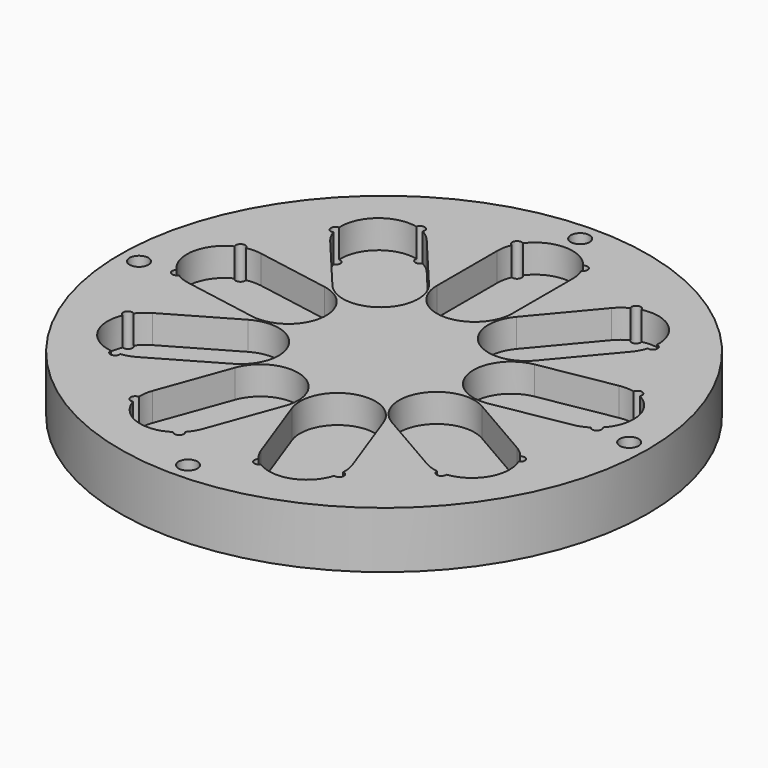
from build123d import *

# Parameters (mm, degrees)
SKETCH_R              = 70
PAD_DEPTH             = 15
POCKET_DEPTH          = 7.5
POLARPATTERN_COUNT    = 9
SKETCH002_R           = 1.25
POCKET001_DEPTH       = 15
POLARPATTERN001_COUNT = 9
SKETCH003_R           = 2.5
POCKET002_DEPTH       = 412.115593
POLARPATTERN002_COUNT = 4


with BuildPart() as part:
    # Sketch (on PolarPattern) → Pad (new body)
    with BuildSketch(Plane.XY):
        Circle(SKETCH_R)
    extrude(amount=PAD_DEPTH)

    # Sketch001 (on Face3 of Pad) → Pocket (cut)
    with BuildSketch(Plane.XY.offset(15)):
        with BuildLine():
            ThreePointArc((10, 50), (0, 60), (-10, 50))
            Line((-10, 50), (-10, 30))
            ThreePointArc((-10, 30), (0, 20), (10, 30))
            Line((10, 50), (10, 30))
        make_face()
    pocket = extrude(amount=-POCKET_DEPTH, mode=Mode.SUBTRACT)

    # PolarPattern: Pocket ×9 about axis
    polarpattern_axis = Axis((0, 0, 15), (0, 0, 1))
    for i in range(1, POLARPATTERN_COUNT):
        add(pocket.rotate(polarpattern_axis, i * 360 / POLARPATTERN_COUNT), mode=Mode.SUBTRACT)

    # Sketch002 (on Face3 of Pad) → Pocket001 (cut)
    with BuildSketch(Plane.XY.offset(15)):
        with Locations((-8.75, 55)):
            Circle(SKETCH002_R)
        with Locations((8.75, 55)):
            Circle(SKETCH002_R)
    pocket001 = extrude(amount=-POCKET001_DEPTH, mode=Mode.SUBTRACT)

    # PolarPattern001: Pocket001 ×9 about axis
    polarpattern001_axis = Axis((0, 0, 15), (0, 0, 1))
    for i in range(1, POLARPATTERN001_COUNT):
        add(pocket001.rotate(polarpattern001_axis, i * 360 / POLARPATTERN001_COUNT), mode=Mode.SUBTRACT)

    # Sketch003 (on Face3 of PolarPattern001) → Pocket002 (cut, through all)
    with BuildSketch(Plane.XY.offset(15)):
        with Locations((0, 65)):
            Circle(SKETCH003_R)
    pocket002 = extrude(amount=-POCKET002_DEPTH, mode=Mode.SUBTRACT)

    # PolarPattern002: Pocket002 ×4 about axis
    polarpattern002_axis = Axis((0, 0, 15), (0, 0, 1))
    for i in range(1, POLARPATTERN002_COUNT):
        add(pocket002.rotate(polarpattern002_axis, i * 360 / POLARPATTERN002_COUNT), mode=Mode.SUBTRACT)


solid = part.part
